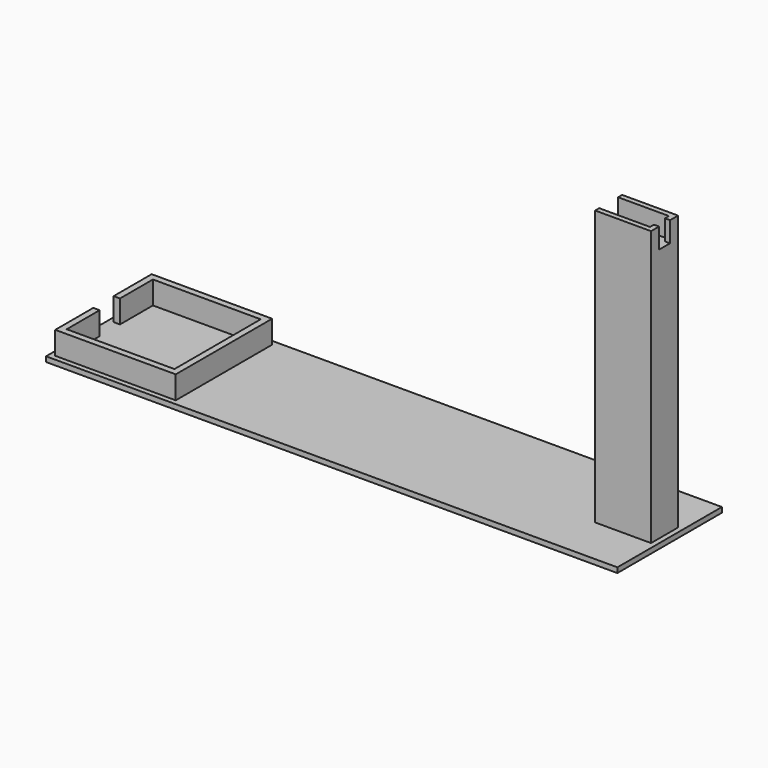
from build123d import *

# Parameters (mm, degrees)
F1_DEPTH  = 9
F5_W      = 2
F5_H      = 2
F6_DEPTH  = 8
F7_DEPTH  = 2
F5_H_2    = 4.65
F5_H_3    = 2.7
F8_DEPTH  = 100
F9_W      = 224.7
F9_H      = 51.4
F9_W_2    = 220.7
F9_H_2    = 47.4
F10_DEPTH = 2


with BuildPart() as f1:
    # F0 (on Top) → F1 (new body)
    with BuildSketch(Plane.XY):
        Polygon((-23.7, -23.7), (23.7, -23.7), (23.7, 0), (21.2, 0), (21.2, -21.2), (-21.2, -21.2), (-21.2, -5), (-23.7, -5), align=None)
        Polygon((21.2, 0), (23.7, 0), (23.7, 23.7), (-23.7, 23.7), (-23.7, 5), (-21.2, 5), (-21.2, 21.2), (21.2, 21.2), align=None)
    extrude(amount=F1_DEPTH)



with BuildPart() as f6:
    # F5 (on line) → F6 (new body)
    with BuildSketch(Plane.XY.offset(100)):
        Polygon((195, -4.65), (177, -4.65), (177, -6.65), (197, -6.65), (197, -2.7), (195, -2.7), align=None)
        with Locations((176, -5.65)):
            Rectangle(F5_W, F5_H)
    extrude(amount=F6_DEPTH)



with BuildPart() as f6b:
    # F5 (on line) → F6, piece 2 (new body)
    with BuildSketch(Plane.XY.offset(100)):
        Polygon((177, 6.65), (177, 4.65), (195, 4.65), (195, 2.7), (197, 2.7), (197, 6.65), align=None)
        with Locations((176, 5.65)):
            Rectangle(F5_W, F5_H)
    extrude(amount=F6_DEPTH)


with BuildPart() as f6_1:
    add(f6.part)

    add(f6b.part)  # F7 merges F6b
    # F5 (on line) → F7 (join)
    with BuildSketch(Plane.XY.offset(100)):
        Polygon((177, 4.65), (177, 0), (177, -4.65), (195, -4.65), (195, -2.7), (195, 0), (195, 2.7), (195, 4.65), align=None)
    extrude(amount=-F7_DEPTH)

    # F5 (on line) → F8 (join)
    with BuildSketch(Plane.XY.offset(100)):
        Polygon((195, -4.65), (177, -4.65), (177, -6.65), (197, -6.65), (197, -2.7), (195, -2.7), align=None)
        with Locations((176, -5.65)):
            Rectangle(F5_W, F5_H)
        with Locations((176, -2.325)):
            Rectangle(F5_W, F5_H_2)
        with Locations((176, 2.325)):
            Rectangle(F5_W, F5_H_2)
        with Locations((176, 5.65)):
            Rectangle(F5_W, F5_H)
        Polygon((177, 6.65), (177, 4.65), (195, 4.65), (195, 2.7), (197, 2.7), (197, 6.65), align=None)
        with Locations((196, -1.35)):
            Rectangle(F5_W, F5_H_3)
        with Locations((196, 1.35)):
            Rectangle(F5_W, F5_H_3)
    extrude(amount=-F8_DEPTH)


with BuildPart() as f1_1:
    add(f1.part)

    add(f6_1.part)  # F10 merges F6
    # F9 (on Top) → F10 (join)
    with BuildSketch(Plane.XY):
        with Locations((86.65, 0)):
            Rectangle(F9_W, F9_H)
        with Locations((86.65, 0)):
            Rectangle(F9_W_2, F9_H_2, mode=Mode.SUBTRACT)
        with Locations((86.65, 0)):
            Rectangle(F9_W_2, F9_H_2)
    extrude(amount=-F10_DEPTH)


solid = f1_1.part
